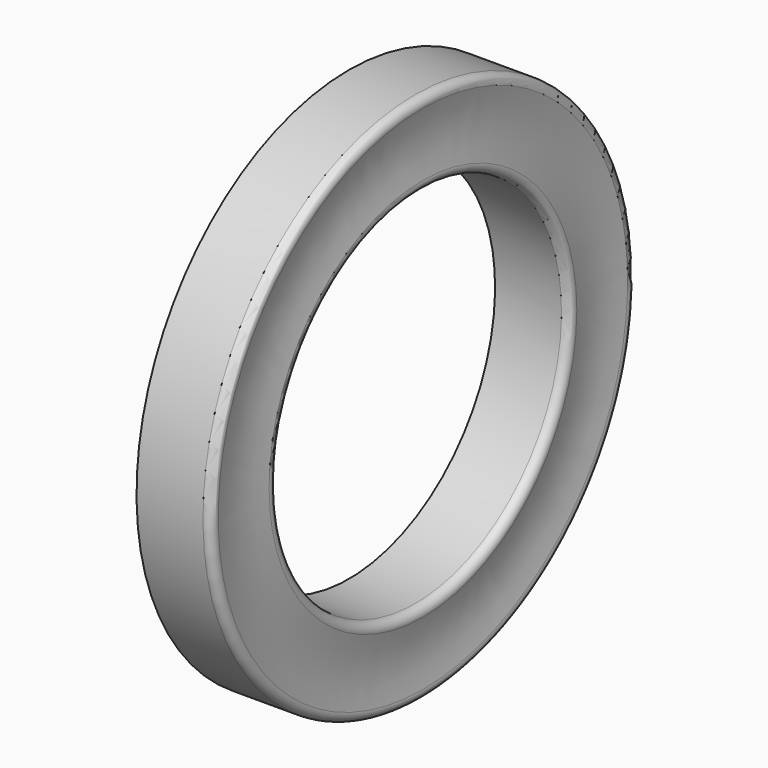
from build123d import *


with BuildPart() as f1:
    # F0 (on Front) → F1 (revolve)
    with BuildSketch(Plane.XZ):
        with BuildLine():
            ThreePointArc((-0.043817, 4.161321), (-0.067555, 4.269612), (-0.167301, 4.318))
            Line((-0.167301, 4.318), (-1.248007, 4.318))
            Line((-1.248007, 4.318), (-1.248007, 2.9718))
            Line((-1.248007, 2.9718), (-0.167301, 2.9718))
            ThreePointArc((-0.167301, 2.9718), (-0.067555, 3.020188), (-0.043817, 3.128479))
            ThreePointArc((-0.043817, 3.128479), (-0.105007, 3.6449), (-0.043817, 4.161321))
        make_face()
    revolve(axis=Axis((-3.079263, 0, 0), (-1, 0, 0)))


solid = f1.part
